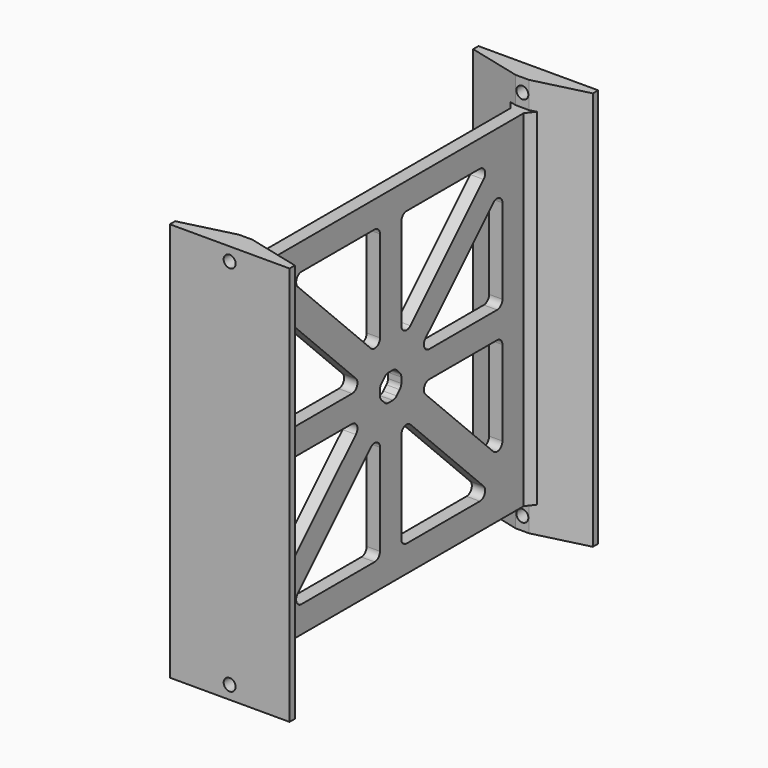
from build123d import *

# Parameters (mm, degrees)
F1_START      = 20
F0_W          = 10
F0_H          = 260
F1_DEPTH      = 260
F2_DEPTH      = 300
F3_R          = 4.5
F4_DEPTH      = 15.001
F4_DEPTH_BACK = 275.001
F5_SIZE       = 5
F7_DEPTH      = 50.001
F8_R          = 5


with BuildPart() as f1:
    # F0 (on Top) → F1 (new body)
    with BuildSketch(Plane.XY.offset(F1_START)):
        with Locations((45, 145)):
            Rectangle(F0_W, F0_H)
    extrude(amount=F1_DEPTH)

    # F0 (on Top) → F2 (join)
    with BuildSketch(Plane.XY):
        Polygon((45, 290), (0, 290), (0, 285), (40, 275), (50, 275), (90, 285), (90, 290), align=None)
        Polygon((50, 15), (40, 15), (0, 5), (0, 0), (45, 0), (90, 0), (90, 5), align=None)
    extrude(amount=F2_DEPTH)

    # F3 (on face) → F4 (cut, two sides)
    with BuildSketch(Plane(origin=(0, 15, 0), x_dir=(-1, 0, 0), z_dir=(0, 1, 0))) as f4_sk:
        with Locations((-45, 290)):
            Circle(F3_R)
        with Locations((-45, 10)):
            Circle(F3_R)
    extrude(amount=-F4_DEPTH, mode=Mode.SUBTRACT)
    extrude(f4_sk.sketch, amount=F4_DEPTH_BACK, mode=Mode.SUBTRACT)

    # F5
    f5_edges = [f1.edges().sort_by_distance(p)[0] for p in [
        (50, 275, 150),
        (40, 275, 150),
        (40, 15, 150),
        (50, 15, 150),
    ]]
    chamfer(f5_edges, length=F5_SIZE)

    # F6 (on face) → F7 (cut, through all)
    with BuildSketch(Plane.YZ.offset(50)):
        Polygon((135, 260), (49.1421356237, 260), (135, 174.1421356237), align=None)
        Polygon((240.8578643763, 260), (155, 260), (155, 174.1421356237), align=None)
        Polygon((250, 160), (250, 240.8578643763), (169.1421356237, 160), align=None)
        Polygon((250, 59.1421356237), (250, 140), (169.1421356237, 140), align=None)
        Polygon((155, 125.8578643763), (155, 40), (240.8578643763, 40), align=None)
        Polygon((135, 125.8578643763), (49.1421356237, 40), (135, 40), align=None)
        Polygon((120.8578643763, 140), (40, 140), (40, 59.1421356237), align=None)
        Polygon((40, 160), (120.8578643763, 160), (40, 240.8578643763), align=None)
        Polygon((155, 145.8578643763), (155, 154.1421356237), (149.1421356237, 160), (140.8578643763, 160), (135, 154.1421356237), (135, 145.8578643763), (140.8578643763, 140), (149.1421356237, 140), align=None)
    extrude(amount=-F7_DEPTH, mode=Mode.SUBTRACT)

    # F8
    f8_edges = [f1.edges().sort_by_distance(p)[0] for p in [
        (45, 240.857864, 260),
        (45, 155, 260),
        (45, 155, 174.142136),
        (45, 250, 240.857864),
        (45, 250, 160),
        (45, 169.142136, 160),
        (45, 250, 140),
        (45, 250, 59.142136),
        (45, 169.142136, 140),
        (45, 155, 125.857864),
        (45, 240.857864, 40),
        (45, 155, 40),
        (45, 135, 125.857864),
        (45, 135, 40),
        (45, 49.142136, 40),
        (45, 40, 59.142136),
        (45, 40, 140),
        (45, 120.857864, 140),
        (45, 40, 160),
        (45, 40, 240.857864),
        (45, 120.857864, 160),
        (45, 135, 174.142136),
        (45, 49.142136, 260),
        (45, 135, 260),
        (45, 135, 145.857864),
        (45, 135, 154.142136),
        (45, 140.857864, 160),
        (45, 149.142136, 160),
        (45, 155, 154.142136),
        (45, 155, 145.857864),
        (45, 149.142136, 140),
        (45, 140.857864, 140),
    ]]
    fillet(f8_edges, radius=F8_R)


solid = f1.part
